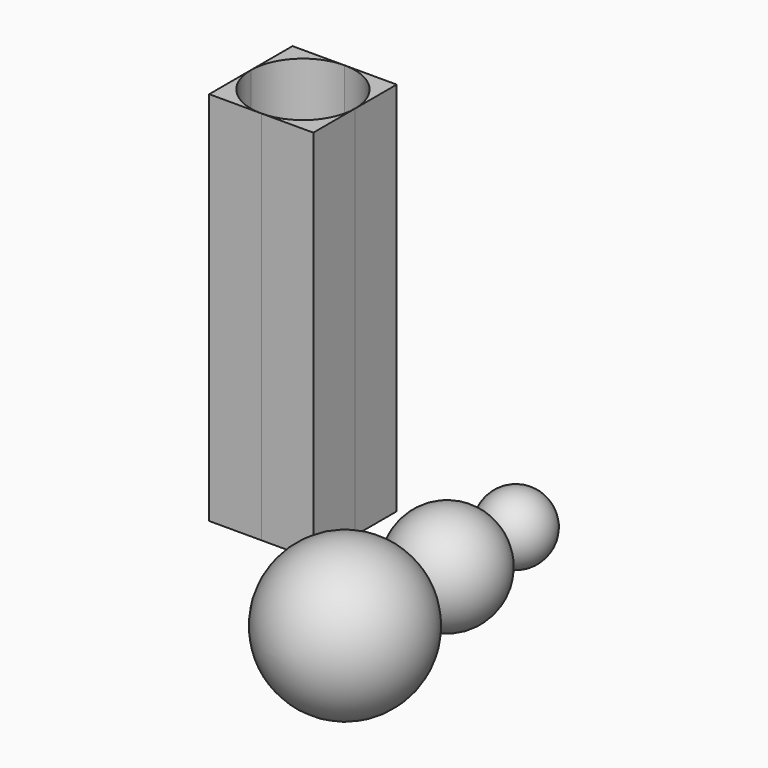
from build123d import *

# Parameters (mm, degrees)
F2_W     = 35.1984426379
F2_H     = 35.1984426379
F3_DEPTH = 127
F5_DEPTH = 152.401


with BuildPart() as f1:
    # F0 (on Top) → F1 (revolve)
    with BuildSketch(Plane.XY):
        with BuildLine():
            Line((0, 60.7346662214), (0, 83.5411669659))
            ThreePointArc((0, 83.5411669659), (-11.4032503723, 72.1379165937), (0, 60.7346662214))
        make_face()
    revolve(axis=Axis((0, 25.5273673683, 0), (0, 1, 0)))


with BuildPart() as f1b:
    # F0 (on Top) → F1, piece 2 (revolve)
    with BuildSketch(Plane.XY):
        with BuildLine():
            Line((0, 25.4), (0, 60.7346662214))
            ThreePointArc((0, 60.7346662214), (-17.6673331107, 43.0673331107), (0, 25.4))
        make_face()
    revolve(axis=Axis((0, 25.5273673683, 0), (0, 1, 0)))


with BuildPart() as f1c:
    # F0 (on Top) → F1, piece 3 (revolve)
    with BuildSketch(Plane.XY):
        with BuildLine():
            Line((0, -25.4), (0, 25.4))
            ThreePointArc((0, 25.4), (-25.4, 0), (0, -25.4))
        make_face()
    revolve(axis=Axis((0, 25.5273673683, 0), (0, 1, 0)))


with BuildPart() as f3:
    # F2 (on Top) → F3 (new body)
    with BuildSketch(Plane.XY):
        with Locations((-47.747451812, 41.9297590852)):
            Rectangle(F2_W, F2_H)
    extrude(amount=F3_DEPTH)

    # F4 (on face) → F5 (cut, through all)
    with BuildSketch(Plane.XY.offset(127)):
        with BuildLine():
            ThreePointArc((-47.747451812, 24.3305377662), (-35.3029230738, 29.4852303469), (-30.1482304931, 41.9297590852))
            ThreePointArc((-30.1482304931, 41.9297590852), (-35.3029230738, 54.3742878234), (-47.747451812, 59.5289804041))
            ThreePointArc((-47.747451812, 59.5289804041), (-60.1919805503, 54.3742878234), (-65.346673131, 41.9297590852))
            ThreePointArc((-65.346673131, 41.9297590852), (-60.1919805503, 29.4852303469), (-47.747451812, 24.3305377662))
        make_face()
    extrude(amount=-F5_DEPTH, mode=Mode.SUBTRACT)


solid = Compound([f1.part, f1b.part, f1c.part, f3.part])
